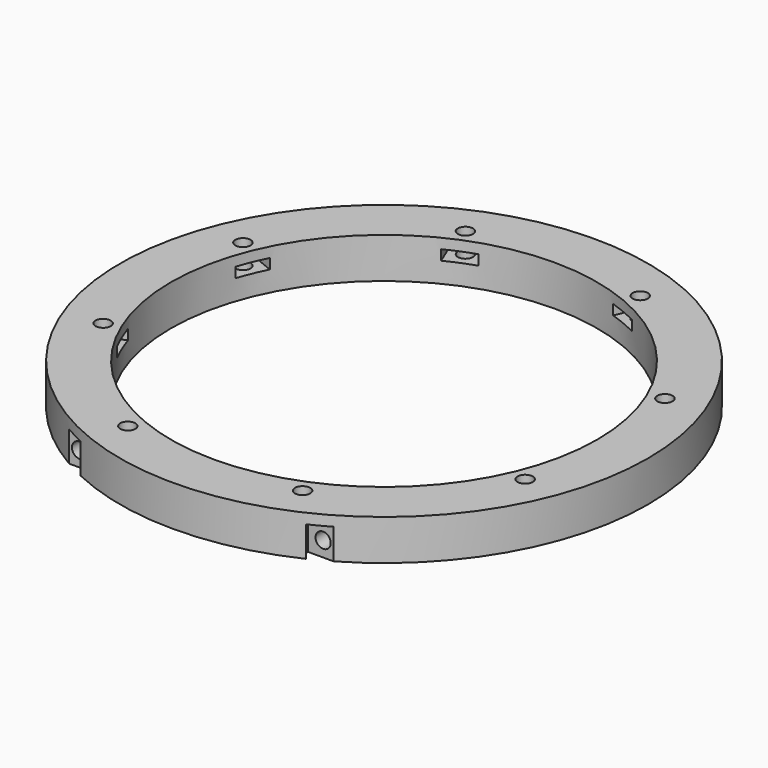
from build123d import *

# Parameters (mm, degrees)
CYLINDER1382_R               = 1.5
CYLINDER1382_DEPTH           = 20
CYLINDER1382_PLACEMENT_ANGLE = 45
CYLINDER1378_R               = 1.5
CYLINDER1378_DEPTH           = 20
CYLINDER1379_R               = 1.5
CYLINDER1379_DEPTH           = 20
CYLINDER1379_PLACEMENT_ANGLE = 135
CYLINDER1377_R               = 1.5
CYLINDER1377_DEPTH           = 20
CYLINDER1383_R               = 1.5
CYLINDER1383_DEPTH           = 20
CYLINDER1383_PLACEMENT_ANGLE = 225
CYLINDER1380_R               = 1.5
CYLINDER1380_DEPTH           = 20
CYLINDER1381_R               = 1.5
CYLINDER1381_DEPTH           = 20
CYLINDER1381_PLACEMENT_ANGLE = 45
CYLINDER1373_R               = 1.5
CYLINDER1373_DEPTH           = 20
COMPOUND872_PLACEMENT_ANGLE  = 22.5
BOX503_W                     = 6
BOX503_H                     = 8
BOX503_DEPTH                 = 2
BOX503_PLACEMENT_ANGLE       = 45
BOX500_W                     = 6
BOX500_H                     = 8
BOX500_DEPTH                 = 2
BOX509_W                     = 6
BOX509_H                     = 8
BOX509_DEPTH                 = 2
BOX509_PLACEMENT_ANGLE       = 135
BOX498_W                     = 6
BOX498_H                     = 8
BOX498_DEPTH                 = 2
BOX505_W                     = 6
BOX505_H                     = 8
BOX505_DEPTH                 = 2
BOX505_PLACEMENT_ANGLE       = 225
BOX501_W                     = 6
BOX501_H                     = 8
BOX501_DEPTH                 = 2
BOX508_W                     = 6
BOX508_H                     = 8
BOX508_DEPTH                 = 2
BOX508_PLACEMENT_ANGLE       = 45
BOX502_W                     = 6
BOX502_H                     = 8
BOX502_DEPTH                 = 2
COMPOUND873_PLACEMENT_ANGLE  = 22.5
CYLINDER1376_R               = 1.5
CYLINDER1376_DEPTH           = 20
CYLINDER1372_R               = 1.5
CYLINDER1372_DEPTH           = 20
CYLINDER1375_R               = 1.5
CYLINDER1375_DEPTH           = 20
CYLINDER1374_R               = 1.5
CYLINDER1374_DEPTH           = 20
BOX507_W                     = 6
BOX507_H                     = 2
BOX507_DEPTH                 = 6
BOX499_W                     = 6
BOX499_H                     = 2
BOX499_DEPTH                 = 6
BOX506_W                     = 6
BOX506_H                     = 2
BOX506_DEPTH                 = 6
BOX504_W                     = 6
BOX504_H                     = 2
BOX504_DEPTH                 = 6
TUBE091_R                    = 52
TUBE091_R_2                  = 42
TUBE091_DEPTH                = 8


with BuildPart() as obj1:
    # Cylinder1382 → Cylinder1382 (new body)
    with BuildSketch(Plane.XY):
        Circle(CYLINDER1382_R)
    extrude(amount=CYLINDER1382_DEPTH)


with BuildPart() as obj1_1:
    # Cylinder1382 placement: moved
    add(obj1.part.moved(Location((-31.819805, 31.819805, -18))).rotate(Axis((-31.819805, 31.819805, -18), (0, 0, 1)), CYLINDER1382_PLACEMENT_ANGLE))


with BuildPart() as obj2:
    # Cylinder1378 → Cylinder1378 (new body)
    with BuildSketch(Plane(origin=(-45, 0, -18), x_dir=(0, 1, 0), z_dir=(0, 0, 1))):
        Circle(CYLINDER1378_R)
    extrude(amount=CYLINDER1378_DEPTH)


with BuildPart() as obj3:
    # Cylinder1379 → Cylinder1379 (new body)
    with BuildSketch(Plane.XY):
        Circle(CYLINDER1379_R)
    extrude(amount=CYLINDER1379_DEPTH)


with BuildPart() as obj3_1:
    # Cylinder1379 placement: moved
    add(obj3.part.moved(Location((-31.819805, -31.819805, -18))).rotate(Axis((-31.819805, -31.819805, -18), (0, 0, 1)), CYLINDER1379_PLACEMENT_ANGLE))


with BuildPart() as obj4:
    # Cylinder1377 → Cylinder1377 (new body)
    with BuildSketch(Plane(origin=(0, -45, -18), x_dir=(-1, 0, 0), z_dir=(0, 0, 1))):
        Circle(CYLINDER1377_R)
    extrude(amount=CYLINDER1377_DEPTH)


with BuildPart() as obj5:
    # Cylinder1383 → Cylinder1383 (new body)
    with BuildSketch(Plane.XY):
        Circle(CYLINDER1383_R)
    extrude(amount=CYLINDER1383_DEPTH)


with BuildPart() as obj5_1:
    # Cylinder1383 placement: moved
    add(obj5.part.moved(Location((31.819805, -31.819805, -18))).rotate(Axis((31.819805, -31.819805, -18), (0, 0, 1)), CYLINDER1383_PLACEMENT_ANGLE))


with BuildPart() as obj6:
    # Cylinder1380 → Cylinder1380 (new body)
    with BuildSketch(Plane(origin=(45, 0, -18), x_dir=(0, -1, 0), z_dir=(0, 0, 1))):
        Circle(CYLINDER1380_R)
    extrude(amount=CYLINDER1380_DEPTH)


with BuildPart() as obj7:
    # Cylinder1381 → Cylinder1381 (new body)
    with BuildSketch(Plane.XY):
        Circle(CYLINDER1381_R)
    extrude(amount=CYLINDER1381_DEPTH)


with BuildPart() as obj7_1:
    # Cylinder1381 placement: moved
    add(obj7.part.moved(Location((31.819805, 31.819805, -18))).rotate(Axis((31.819805, 31.819805, -18), (0, 0, -1)), CYLINDER1381_PLACEMENT_ANGLE))


with BuildPart() as compound872:
    # Cylinder1373 → Cylinder1373 (new body)
    with BuildSketch(Plane(origin=(0, 45, -18), x_dir=(1, 0, 0), z_dir=(0, 0, 1))):
        Circle(CYLINDER1373_R)
    extrude(amount=CYLINDER1373_DEPTH)

    # Compound872: union obj1, obj2, obj3, obj4, obj5, obj6, obj7
    add(obj1_1.part)
    add(obj2.part)
    add(obj3_1.part)
    add(obj4.part)
    add(obj5_1.part)
    add(obj6.part)
    add(obj7_1.part)


with BuildPart() as compound872_1:
    # Compound872 placement: moved
    add(compound872.part.rotate(Axis((0, 0, 0), (0, 0, 1)), COMPOUND872_PLACEMENT_ANGLE))


with BuildPart() as krychle503:
    # Box503 → Box503 (new body)
    with BuildSketch(Plane.XY):
        with Locations((3, 4)):
            Rectangle(BOX503_W, BOX503_H)
    extrude(amount=BOX503_DEPTH)


with BuildPart() as krychle503_1:
    # Box503 placement: moved
    add(krychle503.part.moved(Location((-31.112698, 26.870058, -4))).rotate(Axis((-31.112698, 26.870058, -4), (0, 0, 1)), BOX503_PLACEMENT_ANGLE))


with BuildPart() as krychle500:
    # Box500 → Box500 (new body)
    with BuildSketch(Plane(origin=(-41, -3, -4), x_dir=(0, 1, 0), z_dir=(0, 0, 1))):
        with Locations((3, 4)):
            Rectangle(BOX500_W, BOX500_H)
    extrude(amount=BOX500_DEPTH)


with BuildPart() as krychle509:
    # Box509 → Box509 (new body)
    with BuildSketch(Plane.XY):
        with Locations((3, 4)):
            Rectangle(BOX509_W, BOX509_H)
    extrude(amount=BOX509_DEPTH)


with BuildPart() as krychle509_1:
    # Box509 placement: moved
    add(krychle509.part.moved(Location((-26.870058, -31.112698, -4))).rotate(Axis((-26.870058, -31.112698, -4), (0, 0, 1)), BOX509_PLACEMENT_ANGLE))


with BuildPart() as krychle498:
    # Box498 → Box498 (new body)
    with BuildSketch(Plane(origin=(3, -41, -4), x_dir=(-1, 0, 0), z_dir=(0, 0, 1))):
        with Locations((3, 4)):
            Rectangle(BOX498_W, BOX498_H)
    extrude(amount=BOX498_DEPTH)


with BuildPart() as krychle505:
    # Box505 → Box505 (new body)
    with BuildSketch(Plane.XY):
        with Locations((3, 4)):
            Rectangle(BOX505_W, BOX505_H)
    extrude(amount=BOX505_DEPTH)


with BuildPart() as krychle505_1:
    # Box505 placement: moved
    add(krychle505.part.moved(Location((31.112698, -26.870058, -4))).rotate(Axis((31.112698, -26.870058, -4), (0, 0, 1)), BOX505_PLACEMENT_ANGLE))


with BuildPart() as krychle501:
    # Box501 → Box501 (new body)
    with BuildSketch(Plane(origin=(41, 3, -4), x_dir=(0, -1, 0), z_dir=(0, 0, 1))):
        with Locations((3, 4)):
            Rectangle(BOX501_W, BOX501_H)
    extrude(amount=BOX501_DEPTH)


with BuildPart() as krychle508:
    # Box508 → Box508 (new body)
    with BuildSketch(Plane.XY):
        with Locations((3, 4)):
            Rectangle(BOX508_W, BOX508_H)
    extrude(amount=BOX508_DEPTH)


with BuildPart() as krychle508_1:
    # Box508 placement: moved
    add(krychle508.part.moved(Location((26.870058, 31.112698, -4))).rotate(Axis((26.870058, 31.112698, -4), (0, 0, -1)), BOX508_PLACEMENT_ANGLE))


with BuildPart() as compound873:
    # Box502 → Box502 (new body)
    with BuildSketch(Plane(origin=(-3, 41, -4), x_dir=(1, 0, 0), z_dir=(0, 0, 1))):
        with Locations((3, 4)):
            Rectangle(BOX502_W, BOX502_H)
    extrude(amount=BOX502_DEPTH)

    # Compound873: union Krychle503, Krychle500, Krychle509, Krychle498, Krychle505, Krychle501, Krychle508
    add(krychle503_1.part)
    add(krychle500.part)
    add(krychle509_1.part)
    add(krychle498.part)
    add(krychle505_1.part)
    add(krychle501.part)
    add(krychle508_1.part)


with BuildPart() as compound873_1:
    # Compound873 placement: moved
    add(compound873.part.rotate(Axis((0, 0, 0), (0, 0, 1)), COMPOUND873_PLACEMENT_ANGLE))


with BuildPart() as obj8:
    # Cylinder1376 → Cylinder1376 (new body)
    with BuildSketch(Plane(origin=(24, -40, -5), x_dir=(1, 0, 0), z_dir=(0, -1, 0))):
        Circle(CYLINDER1376_R)
    extrude(amount=CYLINDER1376_DEPTH)


with BuildPart() as obj9:
    # Cylinder1372 → Cylinder1372 (new body)
    with BuildSketch(Plane(origin=(51, -40, 7), x_dir=(1, 0, 0), z_dir=(0, -1, 0))):
        Circle(CYLINDER1372_R)
    extrude(amount=CYLINDER1372_DEPTH)


with BuildPart() as obj10:
    # Cylinder1375 → Cylinder1375 (new body)
    with BuildSketch(Plane(origin=(-51, -40, 7), x_dir=(1, 0, 0), z_dir=(0, -1, 0))):
        Circle(CYLINDER1375_R)
    extrude(amount=CYLINDER1375_DEPTH)


with BuildPart() as compound875:
    # Cylinder1374 → Cylinder1374 (new body)
    with BuildSketch(Plane(origin=(-24, -40, -5), x_dir=(1, 0, 0), z_dir=(0, -1, 0))):
        Circle(CYLINDER1374_R)
    extrude(amount=CYLINDER1374_DEPTH)

    # Compound875: union obj8, obj9, obj10
    add(obj8.part)
    add(obj9.part)
    add(obj10.part)


with BuildPart() as krychle507:
    # Box507 → Box507 (new body)
    with BuildSketch(Plane(origin=(21, -47, -8), x_dir=(1, 0, 0), z_dir=(0, 0, 1))):
        with Locations((3, 1)):
            Rectangle(BOX507_W, BOX507_H)
    extrude(amount=BOX507_DEPTH)


with BuildPart() as krychle499:
    # Box499 → Box499 (new body)
    with BuildSketch(Plane(origin=(48, -45, 4), x_dir=(1, 0, 0), z_dir=(0, 0, 1))):
        with Locations((3, 1)):
            Rectangle(BOX499_W, BOX499_H)
    extrude(amount=BOX499_DEPTH)


with BuildPart() as krychle506:
    # Box506 → Box506 (new body)
    with BuildSketch(Plane(origin=(-54, -45, 4), x_dir=(1, 0, 0), z_dir=(0, 0, 1))):
        with Locations((3, 1)):
            Rectangle(BOX506_W, BOX506_H)
    extrude(amount=BOX506_DEPTH)


with BuildPart() as compound874:
    # Box504 → Box504 (new body)
    with BuildSketch(Plane(origin=(-27, -47, -8), x_dir=(1, 0, 0), z_dir=(0, 0, 1))):
        with Locations((3, 1)):
            Rectangle(BOX504_W, BOX504_H)
    extrude(amount=BOX504_DEPTH)

    # Compound874: union Krychle507, Krychle499, Krychle506
    add(krychle507.part)
    add(krychle499.part)
    add(krychle506.part)


with BuildPart() as cut491:
    # Tube091 → Tube091 (new body)
    with BuildSketch(Plane.XY.offset(-8)):
        Circle(TUBE091_R)
        Circle(TUBE091_R_2, mode=Mode.SUBTRACT)
    extrude(amount=TUBE091_DEPTH)

    # Cut494: cut Compound874
    add(compound874.part, mode=Mode.SUBTRACT)

    # Cut492: cut Compound875
    add(compound875.part, mode=Mode.SUBTRACT)

    # Cut493: cut Compound873
    add(compound873_1.part, mode=Mode.SUBTRACT)

    # Cut491: cut Compound872
    add(compound872_1.part, mode=Mode.SUBTRACT)


with BuildPart() as cut491_1:
    # Cut491 placement: moved
    add(cut491.part.moved(Location((0, 0, -6))))


solid = cut491_1.part
